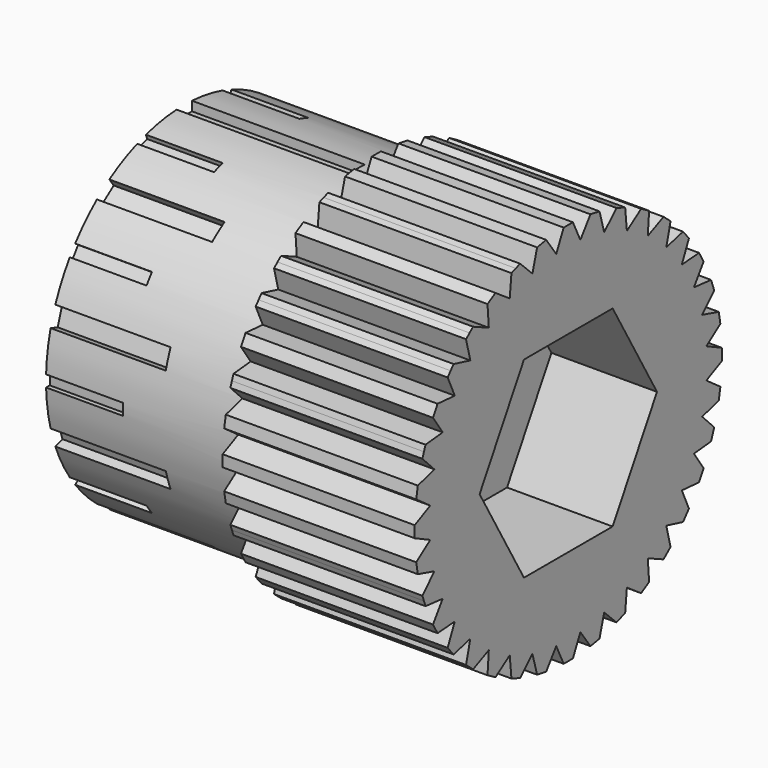
from build123d import *

# Parameters (mm, degrees)
F0_R      = 9
F1_DEPTH  = 20
F3_DEPTH  = 10
F6_DEPTH  = 5.5
F7_W      = 2
F7_H      = 2
F8_DEPTH  = 12
F9_W      = 1
F9_H      = 1
F10_DEPTH = 6
F11_W     = 0.6
F11_H     = 0.5
F11_W_2   = 0.5
F11_H_2   = 0.6
F12_DEPTH = 4
F4_R      = 3.25
F13_DEPTH = 20.001
F14_W     = 1
F14_H     = 0.5
F15_DEPTH = 9


with BuildPart() as f1:
    # F0 (on Right) → F1 (new body)
    with BuildSketch(Plane.YZ):
        Circle(F0_R)
    extrude(amount=F1_DEPTH)

    # F2 (on face) → F3 (join)
    with BuildSketch(Plane.YZ.offset(20)):
        with BuildLine():
            Line((0.3, 10), (0, 10))
            Line((0, 10), (-0.3, 10))
            Line((-0.3, 10), (-0.7863418149, 8.9879280719))
            Line((-0.7863418149, 8.9879280719), (-0.771245795, 8.9668935493))
            ThreePointArc((-0.771245795, 8.9668935493), (0, 9), (0.771245795, 8.9668935493))
            Line((0.771245795, 8.9668935493), (0.7863418149, 8.9879280719))
            Line((0.7863418149, 8.9879280719), (0.3, 10))
        make_face()
        with BuildLine():
            Line((1.4410394508, 9.9001719834), (0.7863418149, 8.9879280719))
            Line((0.7863418149, 8.9879280719), (0.7975558858, 8.9645917146))
            ThreePointArc((0.7975558858, 8.9645917146), (1.562833599, 8.8632697771), (2.3166135626, 8.6967408609))
            Line((2.3166135626, 8.6967408609), (2.3351328465, 8.7148344255))
            Line((2.3351328465, 8.7148344255), (2.0319241026, 9.7959830768))
            Line((2.0319241026, 9.7959830768), (1.7364817767, 9.8480775301))
            Line((1.7364817767, 9.8480775301), (1.4410394508, 9.9001719834))
        make_face()
        with BuildLine():
            Line((0.7975558858, 8.9645917146), (0.7863418149, 8.9879280719))
            Line((0.7863418149, 8.9879280719), (0.771245795, 8.9668935493))
            ThreePointArc((0.771245795, 8.9668935493), (0.7844016847, 8.9657522828), (0.7975558858, 8.9645917146))
        make_face()
        with BuildLine():
            Line((-0.771245795, 8.9668935493), (-0.7863418149, 8.9879280719))
            Line((-0.7863418149, 8.9879280719), (-0.7975558858, 8.9645917146))
            ThreePointArc((-0.7975558858, 8.9645917146), (-0.7844016847, 8.9657522828), (-0.771245795, 8.9668935493))
        make_face()
        with BuildLine():
            Line((-0.7975558858, 8.9645917146), (-0.7863418149, 8.9879280719))
            Line((-0.7863418149, 8.9879280719), (-1.4410394508, 9.9001719834))
            Line((-1.4410394508, 9.9001719834), (-1.7364817767, 9.8480775301))
            Line((-1.7364817767, 9.8480775301), (-2.0319241026, 9.7959830768))
            Line((-2.0319241026, 9.7959830768), (-2.3351328465, 8.7148344255))
            Line((-2.3351328465, 8.7148344255), (-2.3166135626, 8.6967408609))
            ThreePointArc((-2.3166135626, 8.6967408609), (-1.562833599, 8.8632697771), (-0.7975558858, 8.9645917146))
        make_face()
        with BuildLine():
            Line((2.3351328465, 8.7148344255), (2.3166135626, 8.6967408609))
            ThreePointArc((2.3166135626, 8.6967408609), (2.3293714059, 8.6933324366), (2.3421242345, 8.689905297))
            Line((2.3421242345, 8.689905297), (2.3351328465, 8.7148344255))
        make_face()
        with BuildLine():
            ThreePointArc((-2.3421242345, 8.689905297), (-2.3293714059, 8.6933324366), (-2.3166135626, 8.6967408609))
            Line((-2.3166135626, 8.6967408609), (-2.3351328465, 8.7148344255))
            Line((-2.3351328465, 8.7148344255), (-2.3421242345, 8.689905297))
        make_face()
        with BuildLine():
            Line((3.138293647, 9.4995322509), (2.3351328465, 8.7148344255))
            Line((2.3351328465, 8.7148344255), (2.3421242345, 8.689905297))
            ThreePointArc((2.3421242345, 8.689905297), (3.0781812899, 8.4572335871), (3.7915921993, 8.1623421023))
            Line((3.7915921993, 8.1623421023), (3.8129720482, 8.1769449451))
            Line((3.8129720482, 8.1769449451), (3.7021092195, 9.2943201649))
            Line((3.7021092195, 9.2943201649), (3.4202014333, 9.3969262079))
            Line((3.4202014333, 9.3969262079), (3.138293647, 9.4995322509))
        make_face()
        with BuildLine():
            Line((-2.3421242345, 8.689905297), (-2.3351328465, 8.7148344255))
            Line((-2.3351328465, 8.7148344255), (-3.138293647, 9.4995322509))
            Line((-3.138293647, 9.4995322509), (-3.4202014333, 9.3969262079))
            Line((-3.4202014333, 9.3969262079), (-3.7021092195, 9.2943201649))
            Line((-3.7021092195, 9.2943201649), (-3.8129720482, 8.1769449451))
            Line((-3.8129720482, 8.1769449451), (-3.7915921993, 8.1623421023))
            ThreePointArc((-3.7915921993, 8.1623421023), (-3.0781812899, 8.4572335871), (-2.3421242345, 8.689905297))
        make_face()
        with BuildLine():
            Line((3.8129720482, 8.1769449451), (3.7915921993, 8.1623421023))
            ThreePointArc((3.7915921993, 8.1623421023), (3.8035643557, 8.1567700833), (3.8155283236, 8.1511805042))
            Line((3.8155283236, 8.1511805042), (3.8129720482, 8.1769449451))
        make_face()
        with BuildLine():
            ThreePointArc((-3.8155283236, 8.1511805042), (-3.8035643557, 8.1567700833), (-3.7915921993, 8.1623421023))
            Line((-3.7915921993, 8.1623421023), (-3.8129720482, 8.1769449451))
            Line((-3.8129720482, 8.1769449451), (-3.8155283236, 8.1511805042))
        make_face()
        with BuildLine():
            Line((4.7401923789, 8.8102540378), (3.8129720482, 8.1769449451))
            Line((3.8129720482, 8.1769449451), (3.8155283236, 8.1511805042))
            ThreePointArc((3.8155283236, 8.1511805042), (4.5, 7.7942286341), (5.1513652257, 7.3799347092))
            Line((5.1513652257, 7.3799347092), (5.1749560237, 7.3906031302))
            Line((5.1749560237, 7.3906031302), (5.2598076211, 8.5102540378))
            Line((5.2598076211, 8.5102540378), (5, 8.6602540378))
            Line((5, 8.6602540378), (4.7401923789, 8.8102540378))
        make_face()
        with BuildLine():
            Line((-3.8155283236, 8.1511805042), (-3.8129720482, 8.1769449451))
            Line((-3.8129720482, 8.1769449451), (-4.7401923789, 8.8102540378))
            Line((-4.7401923789, 8.8102540378), (-5, 8.6602540378))
            Line((-5, 8.6602540378), (-5.2598076211, 8.5102540378))
            Line((-5.2598076211, 8.5102540378), (-5.1749560237, 7.3906031302))
            Line((-5.1749560237, 7.3906031302), (-5.1513652257, 7.3799347092))
            ThreePointArc((-5.1513652257, 7.3799347092), (-4.5, 7.7942286341), (-3.8155283236, 8.1511805042))
        make_face()
        with BuildLine():
            Line((5.1749560237, 7.3906031302), (5.1513652257, 7.3799347092))
            ThreePointArc((5.1513652257, 7.3799347092), (5.1621879272, 7.3723683986), (5.1729995153, 7.3647862165))
            Line((5.1729995153, 7.3647862165), (5.1749560237, 7.3906031302))
        make_face()
        with BuildLine():
            ThreePointArc((-5.1729995153, 7.3647862165), (-5.1621879272, 7.3723683986), (-5.1513652257, 7.3799347092))
            Line((-5.1513652257, 7.3799347092), (-5.1749560237, 7.3906031302))
            Line((-5.1749560237, 7.3906031302), (-5.1729995153, 7.3647862165))
        make_face()
        with BuildLine():
            Line((6.1980627639, 7.8532807141), (5.1749560237, 7.3906031302))
            Line((5.1749560237, 7.3906031302), (5.1729995153, 7.3647862165))
            ThreePointArc((5.1729995153, 7.3647862165), (5.7850884872, 6.8943999881), (6.3546166264, 6.3732917344))
            Line((6.3546166264, 6.3732917344), (6.379701579, 6.379701579))
            Line((6.379701579, 6.379701579), (6.6576894298, 7.4676081483))
            Line((6.6576894298, 7.4676081483), (6.4278760969, 7.6604444312))
            Line((6.4278760969, 7.6604444312), (6.1980627639, 7.8532807141))
        make_face()
        with BuildLine():
            Line((-5.1729995153, 7.3647862165), (-5.1749560237, 7.3906031302))
            Line((-5.1749560237, 7.3906031302), (-6.1980627639, 7.8532807141))
            Line((-6.1980627639, 7.8532807141), (-6.4278760969, 7.6604444312))
            Line((-6.4278760969, 7.6604444312), (-6.6576894298, 7.4676081483))
            Line((-6.6576894298, 7.4676081483), (-6.379701579, 6.379701579))
            Line((-6.379701579, 6.379701579), (-6.3546166264, 6.3732917344))
            ThreePointArc((-6.3546166264, 6.3732917344), (-5.7850884872, 6.8943999881), (-5.1729995153, 7.3647862165))
        make_face()
        with BuildLine():
            Line((6.379701579, 6.379701579), (6.3546166264, 6.3732917344))
            ThreePointArc((6.3546166264, 6.3732917344), (6.3639610307, 6.3639610307), (6.3732917344, 6.3546166264))
            Line((6.3732917344, 6.3546166264), (6.379701579, 6.379701579))
        make_face()
        with BuildLine():
            ThreePointArc((-6.3732917344, 6.3546166264), (-6.3639610307, 6.3639610307), (-6.3546166264, 6.3732917344))
            Line((-6.3546166264, 6.3732917344), (-6.379701579, 6.379701579))
            Line((-6.379701579, 6.379701579), (-6.3732917344, 6.3546166264))
        make_face()
        with BuildLine():
            Line((7.4676081483, 6.6576894298), (6.379701579, 6.379701579))
            Line((6.379701579, 6.379701579), (6.3732917344, 6.3546166264))
            ThreePointArc((6.3732917344, 6.3546166264), (6.8943999881, 5.7850884872), (7.3647862165, 5.1729995153))
            Line((7.3647862165, 5.1729995153), (7.3906031302, 5.1749560237))
            Line((7.3906031302, 5.1749560237), (7.8532807141, 6.1980627639))
            Line((7.8532807141, 6.1980627639), (7.6604444312, 6.4278760969))
            Line((7.6604444312, 6.4278760969), (7.4676081483, 6.6576894298))
        make_face()
        with BuildLine():
            Line((-6.3732917344, 6.3546166264), (-6.379701579, 6.379701579))
            Line((-6.379701579, 6.379701579), (-7.4676081483, 6.6576894298))
            Line((-7.4676081483, 6.6576894298), (-7.6604444312, 6.4278760969))
            Line((-7.6604444312, 6.4278760969), (-7.8532807141, 6.1980627639))
            Line((-7.8532807141, 6.1980627639), (-7.3906031302, 5.1749560237))
            Line((-7.3906031302, 5.1749560237), (-7.3647862165, 5.1729995153))
            ThreePointArc((-7.3647862165, 5.1729995153), (-6.8943999881, 5.7850884872), (-6.3732917344, 6.3546166264))
        make_face()
        with BuildLine():
            Line((7.3906031302, 5.1749560237), (7.3647862165, 5.1729995153))
            ThreePointArc((7.3647862165, 5.1729995153), (7.3723683986, 5.1621879272), (7.3799347092, 5.1513652257))
            Line((7.3799347092, 5.1513652257), (7.3906031302, 5.1749560237))
        make_face()
        with BuildLine():
            ThreePointArc((-7.3799347092, 5.1513652257), (-7.3723683986, 5.1621879272), (-7.3647862165, 5.1729995153))
            Line((-7.3647862165, 5.1729995153), (-7.3906031302, 5.1749560237))
            Line((-7.3906031302, 5.1749560237), (-7.3799347092, 5.1513652257))
        make_face()
        with BuildLine():
            Line((8.5102540378, 5.2598076211), (7.3906031302, 5.1749560237))
            Line((7.3906031302, 5.1749560237), (7.3799347092, 5.1513652257))
            ThreePointArc((7.3799347092, 5.1513652257), (7.7942286341, 4.5), (8.1511805042, 3.8155283236))
            Line((8.1511805042, 3.8155283236), (8.1769449451, 3.8129720482))
            Line((8.1769449451, 3.8129720482), (8.8102540378, 4.7401923789))
            Line((8.8102540378, 4.7401923789), (8.6602540378, 5))
            Line((8.6602540378, 5), (8.5102540378, 5.2598076211))
        make_face()
        with BuildLine():
            Line((-7.3799347092, 5.1513652257), (-7.3906031302, 5.1749560237))
            Line((-7.3906031302, 5.1749560237), (-8.5102540378, 5.2598076211))
            Line((-8.5102540378, 5.2598076211), (-8.6602540378, 5))
            Line((-8.6602540378, 5), (-8.8102540378, 4.7401923789))
            Line((-8.8102540378, 4.7401923789), (-8.1769449451, 3.8129720482))
            Line((-8.1769449451, 3.8129720482), (-8.1511805042, 3.8155283236))
            ThreePointArc((-8.1511805042, 3.8155283236), (-7.7942286341, 4.5), (-7.3799347092, 5.1513652257))
        make_face()
        with BuildLine():
            Line((8.1769449451, 3.8129720482), (8.1511805042, 3.8155283236))
            ThreePointArc((8.1511805042, 3.8155283236), (8.1567700833, 3.8035643557), (8.1623421023, 3.7915921993))
            Line((8.1623421023, 3.7915921993), (8.1769449451, 3.8129720482))
        make_face()
        with BuildLine():
            ThreePointArc((-8.1623421023, 3.7915921993), (-8.1567700833, 3.8035643557), (-8.1511805042, 3.8155283236))
            Line((-8.1511805042, 3.8155283236), (-8.1769449451, 3.8129720482))
            Line((-8.1769449451, 3.8129720482), (-8.1623421023, 3.7915921993))
        make_face()
        with BuildLine():
            Line((9.2943201649, 3.7021092195), (8.1769449451, 3.8129720482))
            Line((8.1769449451, 3.8129720482), (8.1623421023, 3.7915921993))
            ThreePointArc((8.1623421023, 3.7915921993), (8.4572335871, 3.0781812899), (8.689905297, 2.3421242345))
            Line((8.689905297, 2.3421242345), (8.7148344255, 2.3351328465))
            Line((8.7148344255, 2.3351328465), (9.4995322509, 3.138293647))
            Line((9.4995322509, 3.138293647), (9.3969262079, 3.4202014333))
            Line((9.3969262079, 3.4202014333), (9.2943201649, 3.7021092195))
        make_face()
        with BuildLine():
            Line((-8.1623421023, 3.7915921993), (-8.1769449451, 3.8129720482))
            Line((-8.1769449451, 3.8129720482), (-9.2943201649, 3.7021092195))
            Line((-9.2943201649, 3.7021092195), (-9.3969262079, 3.4202014333))
            Line((-9.3969262079, 3.4202014333), (-9.4995322509, 3.138293647))
            Line((-9.4995322509, 3.138293647), (-8.7148344255, 2.3351328465))
            Line((-8.7148344255, 2.3351328465), (-8.689905297, 2.3421242345))
            ThreePointArc((-8.689905297, 2.3421242345), (-8.4572335871, 3.0781812899), (-8.1623421023, 3.7915921993))
        make_face()
        with BuildLine():
            Line((8.7148344255, 2.3351328465), (8.689905297, 2.3421242345))
            ThreePointArc((8.689905297, 2.3421242345), (8.6933324366, 2.3293714059), (8.6967408609, 2.3166135626))
            Line((8.6967408609, 2.3166135626), (8.7148344255, 2.3351328465))
        make_face()
        with BuildLine():
            ThreePointArc((-8.6967408609, 2.3166135626), (-8.6933324366, 2.3293714059), (-8.689905297, 2.3421242345))
            Line((-8.689905297, 2.3421242345), (-8.7148344255, 2.3351328465))
            Line((-8.7148344255, 2.3351328465), (-8.6967408609, 2.3166135626))
        make_face()
        with BuildLine():
            Line((9.7959830768, 2.0319241026), (8.7148344255, 2.3351328465))
            Line((8.7148344255, 2.3351328465), (8.6967408609, 2.3166135626))
            ThreePointArc((8.6967408609, 2.3166135626), (8.8632697771, 1.562833599), (8.9645917146, 0.7975558858))
            Line((8.9645917146, 0.7975558858), (8.9879280719, 0.7863418149))
            Line((8.9879280719, 0.7863418149), (9.9001719834, 1.4410394508))
            Line((9.9001719834, 1.4410394508), (9.8480775301, 1.7364817767))
            Line((9.8480775301, 1.7364817767), (9.7959830768, 2.0319241026))
        make_face()
        with BuildLine():
            Line((-8.6967408609, 2.3166135626), (-8.7148344255, 2.3351328465))
            Line((-8.7148344255, 2.3351328465), (-9.7959830768, 2.0319241026))
            Line((-9.7959830768, 2.0319241026), (-9.8480775301, 1.7364817767))
            Line((-9.8480775301, 1.7364817767), (-9.9001719834, 1.4410394508))
            Line((-9.9001719834, 1.4410394508), (-8.9879280719, 0.7863418149))
            Line((-8.9879280719, 0.7863418149), (-8.9645917146, 0.7975558858))
            ThreePointArc((-8.9645917146, 0.7975558858), (-8.8632697771, 1.562833599), (-8.6967408609, 2.3166135626))
        make_face()
        with BuildLine():
            Line((8.9879280719, 0.7863418149), (8.9645917146, 0.7975558858))
            ThreePointArc((8.9645917146, 0.7975558858), (8.9657522828, 0.7844016847), (8.9668935493, 0.771245795))
            Line((8.9668935493, 0.771245795), (8.9879280719, 0.7863418149))
        make_face()
        with BuildLine():
            ThreePointArc((-8.9668935493, 0.771245795), (-8.9657522828, 0.7844016847), (-8.9645917146, 0.7975558858))
            Line((-8.9645917146, 0.7975558858), (-8.9879280719, 0.7863418149))
            Line((-8.9879280719, 0.7863418149), (-8.9668935493, 0.771245795))
        make_face()
        with BuildLine():
            Line((10, 0.3), (8.9879280719, 0.7863418149))
            Line((8.9879280719, 0.7863418149), (8.9668935493, 0.771245795))
            ThreePointArc((8.9668935493, 0.771245795), (8.9917195781, 0.3859780154), (9, 0))
            ThreePointArc((9, 0), (8.9917195781, -0.3859780154), (8.9668935493, -0.771245795))
            Line((8.9668935493, -0.771245795), (8.9879280719, -0.7863418149))
            Line((8.9879280719, -0.7863418149), (10, -0.3))
            Line((10, -0.3), (10, 0))
            Line((10, 0), (10, 0.3))
        make_face()
        with BuildLine():
            Line((-8.9668935493, 0.771245795), (-8.9879280719, 0.7863418149))
            Line((-8.9879280719, 0.7863418149), (-10, 0.3))
            Line((-10, 0.3), (-10, 0))
            Line((-10, 0), (-10, -0.3))
            Line((-10, -0.3), (-8.9879280719, -0.7863418149))
            Line((-8.9879280719, -0.7863418149), (-8.9668935493, -0.771245795))
            ThreePointArc((-8.9668935493, -0.771245795), (-9, 0), (-8.9668935493, 0.771245795))
        make_face()
        with BuildLine():
            ThreePointArc((-8.9645917146, -0.7975558858), (-8.9657522828, -0.7844016847), (-8.9668935493, -0.771245795))
            Line((-8.9668935493, -0.771245795), (-8.9879280719, -0.7863418149))
            Line((-8.9879280719, -0.7863418149), (-8.9645917146, -0.7975558858))
        make_face()
        with BuildLine():
            Line((8.9879280719, -0.7863418149), (8.9668935493, -0.771245795))
            ThreePointArc((8.9668935493, -0.771245795), (8.9657522828, -0.7844016847), (8.9645917146, -0.7975558858))
            Line((8.9645917146, -0.7975558858), (8.9879280719, -0.7863418149))
        make_face()
        with BuildLine():
            Line((-8.9645917146, -0.7975558858), (-8.9879280719, -0.7863418149))
            Line((-8.9879280719, -0.7863418149), (-9.9001719834, -1.4410394508))
            Line((-9.9001719834, -1.4410394508), (-9.8480775301, -1.7364817767))
            Line((-9.8480775301, -1.7364817767), (-9.7959830768, -2.0319241026))
            Line((-9.7959830768, -2.0319241026), (-8.7148344255, -2.3351328465))
            Line((-8.7148344255, -2.3351328465), (-8.6967408609, -2.3166135626))
            ThreePointArc((-8.6967408609, -2.3166135626), (-8.8632697771, -1.562833599), (-8.9645917146, -0.7975558858))
        make_face()
        with BuildLine():
            Line((9.9001719834, -1.4410394508), (8.9879280719, -0.7863418149))
            Line((8.9879280719, -0.7863418149), (8.9645917146, -0.7975558858))
            ThreePointArc((8.9645917146, -0.7975558858), (8.8632697771, -1.562833599), (8.6967408609, -2.3166135626))
            Line((8.6967408609, -2.3166135626), (8.7148344255, -2.3351328465))
            Line((8.7148344255, -2.3351328465), (9.7959830768, -2.0319241026))
            Line((9.7959830768, -2.0319241026), (9.8480775301, -1.7364817767))
            Line((9.8480775301, -1.7364817767), (9.9001719834, -1.4410394508))
        make_face()
        with BuildLine():
            ThreePointArc((-8.689905297, -2.3421242345), (-8.6933324366, -2.3293714059), (-8.6967408609, -2.3166135626))
            Line((-8.6967408609, -2.3166135626), (-8.7148344255, -2.3351328465))
            Line((-8.7148344255, -2.3351328465), (-8.689905297, -2.3421242345))
        make_face()
        with BuildLine():
            Line((8.7148344255, -2.3351328465), (8.6967408609, -2.3166135626))
            ThreePointArc((8.6967408609, -2.3166135626), (8.6933324366, -2.3293714059), (8.689905297, -2.3421242345))
            Line((8.689905297, -2.3421242345), (8.7148344255, -2.3351328465))
        make_face()
        with BuildLine():
            Line((-8.689905297, -2.3421242345), (-8.7148344255, -2.3351328465))
            Line((-8.7148344255, -2.3351328465), (-9.4995322509, -3.138293647))
            Line((-9.4995322509, -3.138293647), (-9.3969262079, -3.4202014333))
            Line((-9.3969262079, -3.4202014333), (-9.2943201649, -3.7021092195))
            Line((-9.2943201649, -3.7021092195), (-8.1769449451, -3.8129720482))
            Line((-8.1769449451, -3.8129720482), (-8.1623421023, -3.7915921993))
            ThreePointArc((-8.1623421023, -3.7915921993), (-8.4572335871, -3.0781812899), (-8.689905297, -2.3421242345))
        make_face()
        with BuildLine():
            Line((9.4995322509, -3.138293647), (8.7148344255, -2.3351328465))
            Line((8.7148344255, -2.3351328465), (8.689905297, -2.3421242345))
            ThreePointArc((8.689905297, -2.3421242345), (8.4572335871, -3.0781812899), (8.1623421023, -3.7915921993))
            Line((8.1623421023, -3.7915921993), (8.1769449451, -3.8129720482))
            Line((8.1769449451, -3.8129720482), (9.2943201649, -3.7021092195))
            Line((9.2943201649, -3.7021092195), (9.3969262079, -3.4202014333))
            Line((9.3969262079, -3.4202014333), (9.4995322509, -3.138293647))
        make_face()
        with BuildLine():
            ThreePointArc((-8.1511805042, -3.8155283236), (-8.1567700833, -3.8035643557), (-8.1623421023, -3.7915921993))
            Line((-8.1623421023, -3.7915921993), (-8.1769449451, -3.8129720482))
            Line((-8.1769449451, -3.8129720482), (-8.1511805042, -3.8155283236))
        make_face()
        with BuildLine():
            Line((8.1769449451, -3.8129720482), (8.1623421023, -3.7915921993))
            ThreePointArc((8.1623421023, -3.7915921993), (8.1567700833, -3.8035643557), (8.1511805042, -3.8155283236))
            Line((8.1511805042, -3.8155283236), (8.1769449451, -3.8129720482))
        make_face()
        with BuildLine():
            Line((-8.1511805042, -3.8155283236), (-8.1769449451, -3.8129720482))
            Line((-8.1769449451, -3.8129720482), (-8.8102540378, -4.7401923789))
            Line((-8.8102540378, -4.7401923789), (-8.6602540378, -5))
            Line((-8.6602540378, -5), (-8.5102540378, -5.2598076211))
            Line((-8.5102540378, -5.2598076211), (-7.3906031302, -5.1749560237))
            Line((-7.3906031302, -5.1749560237), (-7.3799347092, -5.1513652257))
            ThreePointArc((-7.3799347092, -5.1513652257), (-7.7942286341, -4.5), (-8.1511805042, -3.8155283236))
        make_face()
        with BuildLine():
            Line((8.8102540378, -4.7401923789), (8.1769449451, -3.8129720482))
            Line((8.1769449451, -3.8129720482), (8.1511805042, -3.8155283236))
            ThreePointArc((8.1511805042, -3.8155283236), (7.7942286341, -4.5), (7.3799347092, -5.1513652257))
            Line((7.3799347092, -5.1513652257), (7.3906031302, -5.1749560237))
            Line((7.3906031302, -5.1749560237), (8.5102540378, -5.2598076211))
            Line((8.5102540378, -5.2598076211), (8.6602540378, -5))
            Line((8.6602540378, -5), (8.8102540378, -4.7401923789))
        make_face()
        with BuildLine():
            ThreePointArc((-7.3647862165, -5.1729995153), (-7.3723683986, -5.1621879272), (-7.3799347092, -5.1513652257))
            Line((-7.3799347092, -5.1513652257), (-7.3906031302, -5.1749560237))
            Line((-7.3906031302, -5.1749560237), (-7.3647862165, -5.1729995153))
        make_face()
        with BuildLine():
            Line((7.3906031302, -5.1749560237), (7.3799347092, -5.1513652257))
            ThreePointArc((7.3799347092, -5.1513652257), (7.3723683986, -5.1621879272), (7.3647862165, -5.1729995153))
            Line((7.3647862165, -5.1729995153), (7.3906031302, -5.1749560237))
        make_face()
        with BuildLine():
            Line((-7.3647862165, -5.1729995153), (-7.3906031302, -5.1749560237))
            Line((-7.3906031302, -5.1749560237), (-7.8532807141, -6.1980627639))
            Line((-7.8532807141, -6.1980627639), (-7.6604444312, -6.4278760969))
            Line((-7.6604444312, -6.4278760969), (-7.4676081483, -6.6576894298))
            Line((-7.4676081483, -6.6576894298), (-6.379701579, -6.379701579))
            Line((-6.379701579, -6.379701579), (-6.3732917344, -6.3546166264))
            ThreePointArc((-6.3732917344, -6.3546166264), (-6.8943999881, -5.7850884872), (-7.3647862165, -5.1729995153))
        make_face()
        with BuildLine():
            Line((7.8532807141, -6.1980627639), (7.3906031302, -5.1749560237))
            Line((7.3906031302, -5.1749560237), (7.3647862165, -5.1729995153))
            ThreePointArc((7.3647862165, -5.1729995153), (6.8943999881, -5.7850884872), (6.3732917344, -6.3546166264))
            Line((6.3732917344, -6.3546166264), (6.379701579, -6.379701579))
            Line((6.379701579, -6.379701579), (7.4676081483, -6.6576894298))
            Line((7.4676081483, -6.6576894298), (7.6604444312, -6.4278760969))
            Line((7.6604444312, -6.4278760969), (7.8532807141, -6.1980627639))
        make_face()
        with BuildLine():
            ThreePointArc((-6.3546166264, -6.3732917344), (-6.3639610307, -6.3639610307), (-6.3732917344, -6.3546166264))
            Line((-6.3732917344, -6.3546166264), (-6.379701579, -6.379701579))
            Line((-6.379701579, -6.379701579), (-6.3546166264, -6.3732917344))
        make_face()
        with BuildLine():
            Line((6.379701579, -6.379701579), (6.3732917344, -6.3546166264))
            ThreePointArc((6.3732917344, -6.3546166264), (6.3639610307, -6.3639610307), (6.3546166264, -6.3732917344))
            Line((6.3546166264, -6.3732917344), (6.379701579, -6.379701579))
        make_face()
        with BuildLine():
            Line((-6.3546166264, -6.3732917344), (-6.379701579, -6.379701579))
            Line((-6.379701579, -6.379701579), (-6.6576894298, -7.4676081483))
            Line((-6.6576894298, -7.4676081483), (-6.4278760969, -7.6604444312))
            Line((-6.4278760969, -7.6604444312), (-6.1980627639, -7.8532807141))
            Line((-6.1980627639, -7.8532807141), (-5.1749560237, -7.3906031302))
            Line((-5.1749560237, -7.3906031302), (-5.1729995153, -7.3647862165))
            ThreePointArc((-5.1729995153, -7.3647862165), (-5.7850884872, -6.8943999881), (-6.3546166264, -6.3732917344))
        make_face()
        with BuildLine():
            Line((6.6576894298, -7.4676081483), (6.379701579, -6.379701579))
            Line((6.379701579, -6.379701579), (6.3546166264, -6.3732917344))
            ThreePointArc((6.3546166264, -6.3732917344), (5.7850884872, -6.8943999881), (5.1729995153, -7.3647862165))
            Line((5.1729995153, -7.3647862165), (5.1749560237, -7.3906031302))
            Line((5.1749560237, -7.3906031302), (6.1980627639, -7.8532807141))
            Line((6.1980627639, -7.8532807141), (6.4278760969, -7.6604444312))
            Line((6.4278760969, -7.6604444312), (6.6576894298, -7.4676081483))
        make_face()
        with BuildLine():
            ThreePointArc((-5.1513652257, -7.3799347092), (-5.1621879272, -7.3723683986), (-5.1729995153, -7.3647862165))
            Line((-5.1729995153, -7.3647862165), (-5.1749560237, -7.3906031302))
            Line((-5.1749560237, -7.3906031302), (-5.1513652257, -7.3799347092))
        make_face()
        with BuildLine():
            Line((5.1749560237, -7.3906031302), (5.1729995153, -7.3647862165))
            ThreePointArc((5.1729995153, -7.3647862165), (5.1621879272, -7.3723683986), (5.1513652257, -7.3799347092))
            Line((5.1513652257, -7.3799347092), (5.1749560237, -7.3906031302))
        make_face()
        with BuildLine():
            Line((-5.1513652257, -7.3799347092), (-5.1749560237, -7.3906031302))
            Line((-5.1749560237, -7.3906031302), (-5.2598076211, -8.5102540378))
            Line((-5.2598076211, -8.5102540378), (-5, -8.6602540378))
            Line((-5, -8.6602540378), (-4.7401923789, -8.8102540378))
            Line((-4.7401923789, -8.8102540378), (-3.8129720482, -8.1769449451))
            Line((-3.8129720482, -8.1769449451), (-3.8155283236, -8.1511805042))
            ThreePointArc((-3.8155283236, -8.1511805042), (-4.5, -7.7942286341), (-5.1513652257, -7.3799347092))
        make_face()
        with BuildLine():
            Line((5.2598076211, -8.5102540378), (5.1749560237, -7.3906031302))
            Line((5.1749560237, -7.3906031302), (5.1513652257, -7.3799347092))
            ThreePointArc((5.1513652257, -7.3799347092), (4.5, -7.7942286341), (3.8155283236, -8.1511805042))
            Line((3.8155283236, -8.1511805042), (3.8129720482, -8.1769449451))
            Line((3.8129720482, -8.1769449451), (4.7401923789, -8.8102540378))
            Line((4.7401923789, -8.8102540378), (5, -8.6602540378))
            Line((5, -8.6602540378), (5.2598076211, -8.5102540378))
        make_face()
        with BuildLine():
            ThreePointArc((-3.7915921993, -8.1623421023), (-3.8035643557, -8.1567700833), (-3.8155283236, -8.1511805042))
            Line((-3.8155283236, -8.1511805042), (-3.8129720482, -8.1769449451))
            Line((-3.8129720482, -8.1769449451), (-3.7915921993, -8.1623421023))
        make_face()
        with BuildLine():
            Line((3.8129720482, -8.1769449451), (3.8155283236, -8.1511805042))
            ThreePointArc((3.8155283236, -8.1511805042), (3.8035643557, -8.1567700833), (3.7915921993, -8.1623421023))
            Line((3.7915921993, -8.1623421023), (3.8129720482, -8.1769449451))
        make_face()
        with BuildLine():
            Line((-3.7915921993, -8.1623421023), (-3.8129720482, -8.1769449451))
            Line((-3.8129720482, -8.1769449451), (-3.7021092195, -9.2943201649))
            Line((-3.7021092195, -9.2943201649), (-3.4202014333, -9.3969262079))
            Line((-3.4202014333, -9.3969262079), (-3.138293647, -9.4995322509))
            Line((-3.138293647, -9.4995322509), (-2.3351328465, -8.7148344255))
            Line((-2.3351328465, -8.7148344255), (-2.3421242345, -8.689905297))
            ThreePointArc((-2.3421242345, -8.689905297), (-3.0781812899, -8.4572335871), (-3.7915921993, -8.1623421023))
        make_face()
        with BuildLine():
            Line((3.7021092195, -9.2943201649), (3.8129720482, -8.1769449451))
            Line((3.8129720482, -8.1769449451), (3.7915921993, -8.1623421023))
            ThreePointArc((3.7915921993, -8.1623421023), (3.0781812899, -8.4572335871), (2.3421242345, -8.689905297))
            Line((2.3421242345, -8.689905297), (2.3351328465, -8.7148344255))
            Line((2.3351328465, -8.7148344255), (3.138293647, -9.4995322509))
            Line((3.138293647, -9.4995322509), (3.4202014333, -9.3969262079))
            Line((3.4202014333, -9.3969262079), (3.7021092195, -9.2943201649))
        make_face()
        with BuildLine():
            ThreePointArc((-2.3166135626, -8.6967408609), (-2.3293714059, -8.6933324366), (-2.3421242345, -8.689905297))
            Line((-2.3421242345, -8.689905297), (-2.3351328465, -8.7148344255))
            Line((-2.3351328465, -8.7148344255), (-2.3166135626, -8.6967408609))
        make_face()
        with BuildLine():
            Line((2.3351328465, -8.7148344255), (2.3421242345, -8.689905297))
            ThreePointArc((2.3421242345, -8.689905297), (2.3293714059, -8.6933324366), (2.3166135626, -8.6967408609))
            Line((2.3166135626, -8.6967408609), (2.3351328465, -8.7148344255))
        make_face()
        with BuildLine():
            Line((-2.3166135626, -8.6967408609), (-2.3351328465, -8.7148344255))
            Line((-2.3351328465, -8.7148344255), (-2.0319241026, -9.7959830768))
            Line((-2.0319241026, -9.7959830768), (-1.7364817767, -9.8480775301))
            Line((-1.7364817767, -9.8480775301), (-1.4410394508, -9.9001719834))
            Line((-1.4410394508, -9.9001719834), (-0.7863418149, -8.9879280719))
            Line((-0.7863418149, -8.9879280719), (-0.7975558858, -8.9645917146))
            ThreePointArc((-0.7975558858, -8.9645917146), (-1.562833599, -8.8632697771), (-2.3166135626, -8.6967408609))
        make_face()
        with BuildLine():
            Line((2.0319241026, -9.7959830768), (2.3351328465, -8.7148344255))
            Line((2.3351328465, -8.7148344255), (2.3166135626, -8.6967408609))
            ThreePointArc((2.3166135626, -8.6967408609), (1.562833599, -8.8632697771), (0.7975558858, -8.9645917146))
            Line((0.7975558858, -8.9645917146), (0.7863418149, -8.9879280719))
            Line((0.7863418149, -8.9879280719), (1.4410394508, -9.9001719834))
            Line((1.4410394508, -9.9001719834), (1.7364817767, -9.8480775301))
            Line((1.7364817767, -9.8480775301), (2.0319241026, -9.7959830768))
        make_face()
        with BuildLine():
            ThreePointArc((-0.771245795, -8.9668935493), (-0.7844016847, -8.9657522828), (-0.7975558858, -8.9645917146))
            Line((-0.7975558858, -8.9645917146), (-0.7863418149, -8.9879280719))
            Line((-0.7863418149, -8.9879280719), (-0.771245795, -8.9668935493))
        make_face()
        with BuildLine():
            Line((0.7863418149, -8.9879280719), (0.7975558858, -8.9645917146))
            ThreePointArc((0.7975558858, -8.9645917146), (0.7844016847, -8.9657522828), (0.771245795, -8.9668935493))
            Line((0.771245795, -8.9668935493), (0.7863418149, -8.9879280719))
        make_face()
        with BuildLine():
            Line((-0.771245795, -8.9668935493), (-0.7863418149, -8.9879280719))
            Line((-0.7863418149, -8.9879280719), (-0.3, -10))
            Line((-0.3, -10), (0, -10))
            Line((0, -10), (0.3, -10))
            Line((0.3, -10), (0.7863418149, -8.9879280719))
            Line((0.7863418149, -8.9879280719), (0.771245795, -8.9668935493))
            ThreePointArc((0.771245795, -8.9668935493), (0, -9), (-0.771245795, -8.9668935493))
        make_face()
    extrude(amount=-F3_DEPTH)

    # F5 (on face) → F6 (cut)
    with BuildSketch(Plane.YZ.offset(20)):
        Polygon((2.8867513459, -5), (5.7735026919, 0), (2.8867513459, 5), (-2.8867513459, 5), (-5.7735026919, 0), (-2.8867513459, -5), align=None)
    extrude(amount=-F6_DEPTH, mode=Mode.SUBTRACT)

    # F7 (on face) → F8 (cut)
    with BuildSketch(Plane.YZ.offset(14.5)):
        with Locations((0, 4)):
            Rectangle(F7_W, F7_H)
    extrude(amount=-F8_DEPTH, mode=Mode.SUBTRACT)

    # F9 (on face) → F10 (cut)
    with BuildSketch(Plane(origin=(0, 0, 0), x_dir=(0, -1, 0), z_dir=(-1, 0, 0))):
        with Locations((0, 9)):
            Rectangle(F9_W, F9_H)
        Polygon((-5.988468394, 7.3917688204), (-5.4006831417, 6.582751826), (-4.5916661473, 7.1705370783), (-5.1794513996, 7.9795540727), align=None)
        Polygon((-9.189545402, 2.4601331884), (-8.2384888857, 2.151116194), (-7.9294718913, 3.1021727103), (-8.8805284076, 3.4111897047), align=None)
        Polygon((-8.8805284076, -3.4111897047), (-7.9294718913, -3.1021727103), (-8.2384888857, -2.151116194), (-9.189545402, -2.4601331884), align=None)
        Polygon((-5.1794513996, -7.9795540727), (-4.5916661473, -7.1705370783), (-5.4006831417, -6.582751826), (-5.988468394, -7.3917688204), align=None)
        with Locations((0, -9)):
            Rectangle(F9_W, F9_H)
        Polygon((5.988468394, -7.3917688204), (5.4006831417, -6.582751826), (4.5916661473, -7.1705370783), (5.1794513996, -7.9795540727), align=None)
        Polygon((9.189545402, -2.4601331884), (8.2384888857, -2.151116194), (7.9294718913, -3.1021727103), (8.8805284076, -3.4111897047), align=None)
        Polygon((8.8805284076, 3.4111897047), (7.9294718913, 3.1021727103), (8.2384888857, 2.151116194), (9.189545402, 2.4601331884), align=None)
        Polygon((5.1794513996, 7.9795540727), (4.5916661473, 7.1705370783), (5.4006831417, 6.582751826), (5.988468394, 7.3917688204), align=None)
    extrude(amount=-F10_DEPTH, mode=Mode.SUBTRACT)

    # F11 (on face) → F12 (cut)
    with BuildSketch(Plane(origin=(0, 0, 0), x_dir=(0, -1, 0), z_dir=(-1, 0, 0))):
        with Locations((0, -9.0041821823)):
            Rectangle(F11_W, F11_H)
        Polygon((2.9905080211, -8.233016911), (2.4198741113, -8.4184271076), (2.5743826085, -8.8939553657), (3.1450165182, -8.7085451691), align=None)
        Polygon((5.3882842809, -6.9059465816), (4.9028740843, -7.258617733), (5.1967667104, -7.6631262302), (5.6821769071, -7.3104550788), align=None)
        Polygon((7.258617733, -4.9028740843), (6.9059465816, -5.3882842809), (7.3104550788, -5.6821769071), (7.6631262302, -5.1967667104), align=None)
        Polygon((8.4184271076, -2.4198741113), (8.233016911, -2.9905080211), (8.7085451691, -3.1450165182), (8.8939553657, -2.5743826085), align=None)
        with Locations((9.0041821823, 0)):
            Rectangle(F11_W_2, F11_H_2)
        Polygon((8.233016911, 2.9905080211), (8.4184271076, 2.4198741113), (8.8939553657, 2.5743826085), (8.7085451691, 3.1450165182), align=None)
        Polygon((6.9059465816, 5.3882842809), (7.258617733, 4.9028740843), (7.6631262302, 5.1967667104), (7.3104550788, 5.6821769071), align=None)
        Polygon((4.9028740843, 7.258617733), (5.3882842809, 6.9059465816), (5.6821769071, 7.3104550788), (5.1967667104, 7.6631262302), align=None)
        Polygon((2.4198741113, 8.4184271076), (2.9905080211, 8.233016911), (3.1450165182, 8.7085451691), (2.5743826085, 8.8939553657), align=None)
        with Locations((0, 9.0041821823)):
            Rectangle(F11_W, F11_H)
        Polygon((-2.9905080211, 8.233016911), (-2.4198741113, 8.4184271076), (-2.5743826085, 8.8939553657), (-3.1450165182, 8.7085451691), align=None)
        Polygon((-5.3882842809, 6.9059465816), (-4.9028740843, 7.258617733), (-5.1967667104, 7.6631262302), (-5.6821769071, 7.3104550788), align=None)
        Polygon((-7.258617733, 4.9028740843), (-6.9059465816, 5.3882842809), (-7.3104550788, 5.6821769071), (-7.6631262302, 5.1967667104), align=None)
        Polygon((-8.4184271076, 2.4198741113), (-8.233016911, 2.9905080211), (-8.7085451691, 3.1450165182), (-8.8939553657, 2.5743826085), align=None)
        with Locations((-9.0041821823, 0)):
            Rectangle(F11_W_2, F11_H_2)
        Polygon((-8.233016911, -2.9905080211), (-8.4184271076, -2.4198741113), (-8.8939553657, -2.5743826085), (-8.7085451691, -3.1450165182), align=None)
        Polygon((-6.9059465816, -5.3882842809), (-7.258617733, -4.9028740843), (-7.6631262302, -5.1967667104), (-7.3104550788, -5.6821769071), align=None)
        Polygon((-4.9028740843, -7.258617733), (-5.3882842809, -6.9059465816), (-5.6821769071, -7.3104550788), (-5.1967667104, -7.6631262302), align=None)
        Polygon((-2.4198741113, -8.4184271076), (-2.9905080211, -8.233016911), (-3.1450165182, -8.7085451691), (-2.5743826085, -8.8939553657), align=None)
    extrude(amount=-F12_DEPTH, mode=Mode.SUBTRACT)

    # F4 (on face) → F13 (cut, through all)
    with BuildSketch(Plane.YZ.offset(20)):
        Circle(F4_R)
    extrude(amount=-F13_DEPTH, mode=Mode.SUBTRACT)

    # F14 (on face) → F15 (cut)
    with BuildSketch(Plane(origin=(0, 0, 0), x_dir=(0, -1, 0), z_dir=(-1, 0, 0))):
        with Locations((0, 8.75)):
            Rectangle(F14_W, F14_H)
    extrude(amount=-F15_DEPTH, mode=Mode.SUBTRACT)


solid = f1.part
